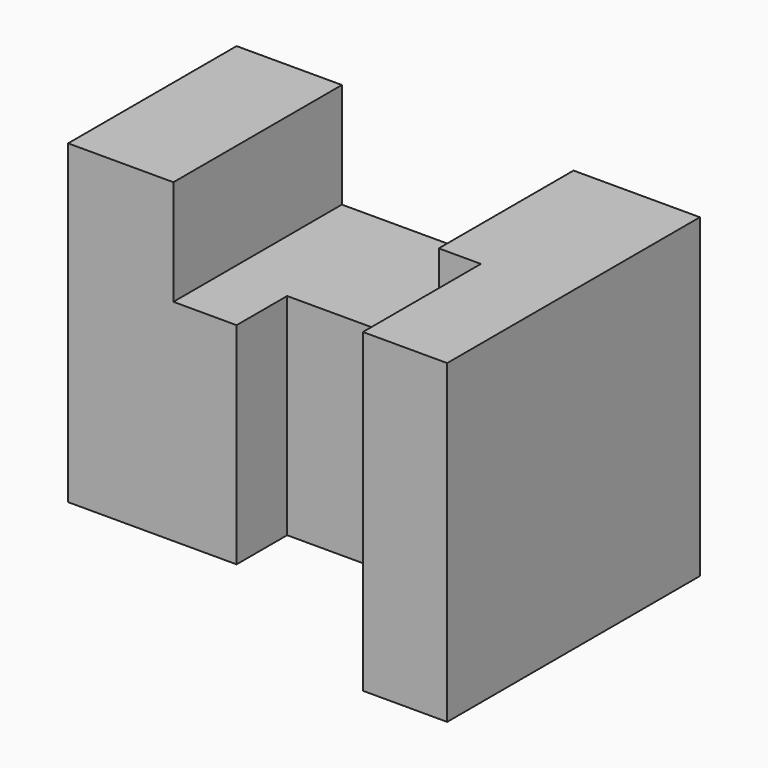
from build123d import *

# Parameters (mm, degrees)
F1_DEPTH = 15
F3_DEPTH = 5


with BuildPart() as f1:
    # F0 (on Top) → F1 (new body)
    with BuildSketch(Plane.XY):
        Polygon((0, 10), (0, 0), (8, 0), (8, 3), (13, 3), (13, 2), (18, 2), (18, 0), (18, -5), (22, -5), (22, 10), align=None)
    extrude(amount=F1_DEPTH)

    # F2 (on face) → F3 (cut)
    with BuildSketch(Plane.XY.offset(15)):
        Polygon((16, 2), (16, 10), (5, 10), (5, 0), (8, 0), (8, 3), (13, 3), (13, 2), align=None)
    extrude(amount=-F3_DEPTH, mode=Mode.SUBTRACT)


solid = f1.part
